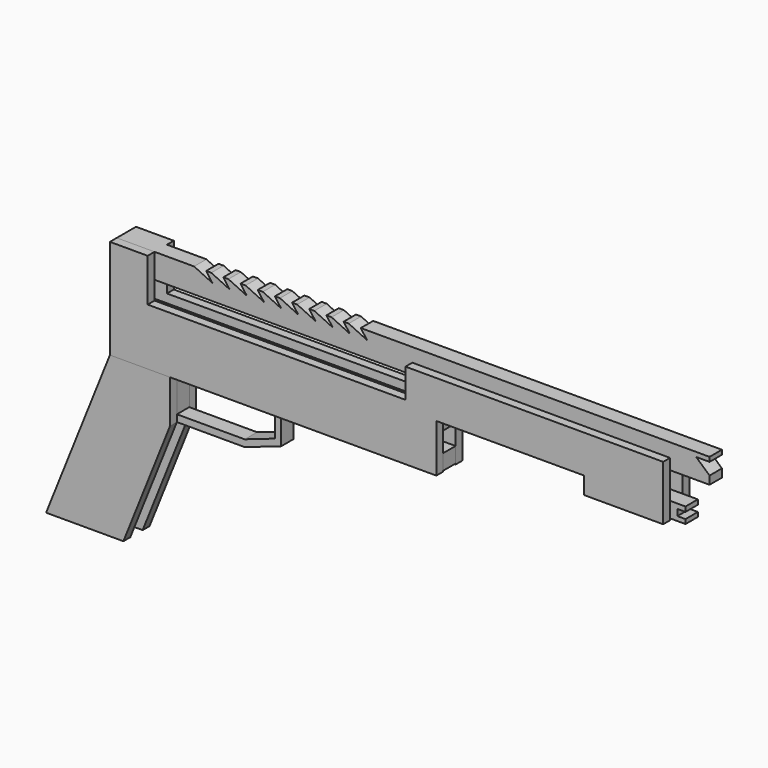
from build123d import *

# Parameters (mm, degrees)
F2_DEPTH  = 5
F3_W      = 185
F3_H      = 9
F4_DEPTH  = 4.5
F6_DEPTH  = 4.5
F8_DEPTH  = 5
F9_W      = 15
F9_H      = 40
F9_W_2    = 30
F9_H_2    = 9
F9_W_3    = 25
F10_DEPTH = 4.5
F14_DEPTH = 5
F16_DEPTH = 4.5


with BuildPart() as f2:
    # F1 (on offset) → F2 (new body)
    with BuildSketch(Plane.XZ.offset(-4.5)):
        Polygon((22, 0), (0, 0), (0, -58), (190, -58), (190, -30), (276, -30), (276, -40), (322, -40), (322, -8), (172, -8), (172, -25), (22, -25), align=None)
    extrude(amount=-F2_DEPTH)

    # F3 (on Front) → F4 (join, symmetric)
    with BuildSketch(Plane.XZ):
        with Locations((95, -34.5)):
            Rectangle(F3_W, F3_H)
        Polygon((331, -30), (276, -30), (276, -39), (331, -39), (331, -36.443051), (326.275468, -36.443051), (326.275468, -32.761794), (331, -32.761794), align=None)
    extrude(amount=F4_DEPTH, both=True)

    # F5 (on Front) → F6 (join, symmetric)
    with BuildSketch(Plane.XZ):
        Polygon((39.891679, 0), (0, 0), (0, -5), (0, -14.320182), (345, -14.320182), (345, -9.582848), (337.206424, -2.595493), (345, -2.595493), (345, 0), (142.02372, 0), (145.632293, -5), (135, 0), (132.02372, 0), (135.632293, -5), (125, 0), (122.02372, 0), (125.632293, -5), (115, 0), (112.02372, 0), (115.632293, -5), (105, 0), (102.02372, 0), (105.632293, -5), (95, 0), (92.02372, 0), (95.632293, -5), (85, 0), (82.02372, 0), (85.632293, -5), (75, 0), (72.02372, 0), (75.632293, -5), (65, 0), (62.02372, 0), (65.632293, -5), (55, 0), (52.02372, 0), (55.632293, -5), (45, 0), (40.031508, 0), align=None)
    extrude(amount=F6_DEPTH, both=True)


with BuildPart() as f8:
    # F7 (on offset) → F8 (new body)
    with BuildSketch(Plane.XZ.offset(-4.5)):
        Polygon((35, -58), (0, -58), (-37.139068, -150.847669), (7.860932, -150.847669), (35, -83), align=None)
    extrude(amount=-F8_DEPTH)


with BuildPart() as f10:
    # F9 (on Front) → F10 (new body, symmetric)
    with BuildSketch(Plane.XZ):
        with Locations((7.5, -59)):
            Rectangle(F9_W, F9_H)
        with Locations((27.5, -59)):
            Rectangle(F9_W, F9_H)
        with Locations((-11.511086, -140.289409)):
            Rectangle(F9_W_2, F9_H_2)
        with Locations((175, -53)):
            Rectangle(F9_W_2, F9_H_2)
        with Locations((79.5, -53)):
            Rectangle(F9_W_3, F9_H_2)
    extrude(amount=F10_DEPTH, both=True)


with BuildPart() as f11_1:
    # F11: instance of F8
    add(f8.part.mirror(Plane.XZ))


with BuildPart() as f14:
    # F13 (on offset) → F14 (new body)
    with BuildSketch(Plane.XZ.offset(4.5)):
        Polygon((22, 0), (0, 0), (0, -58), (190, -58), (190, -30), (276, -30), (276, -40), (322, -40), (322, -8), (172, -8), (172, -25), (22, -25), align=None)
    extrude(amount=F14_DEPTH)


with BuildPart() as f16:
    # F15 (on Front) → F16 (new body, symmetric)
    with BuildSketch(Plane.XZ):
        Polygon((74.453317, -79), (20, -79), (20, -83), (74.453317, -83), (95.681071, -75.662374), (95.681071, -52.5), (110.464296, -52.5), (110.464296, -48.5), (92, -48.5), (92, -72.93478), align=None)
    extrude(amount=F16_DEPTH, both=True)


solid = Compound([f2.part, f8.part, f10.part, f11_1.part, f14.part, f16.part])
